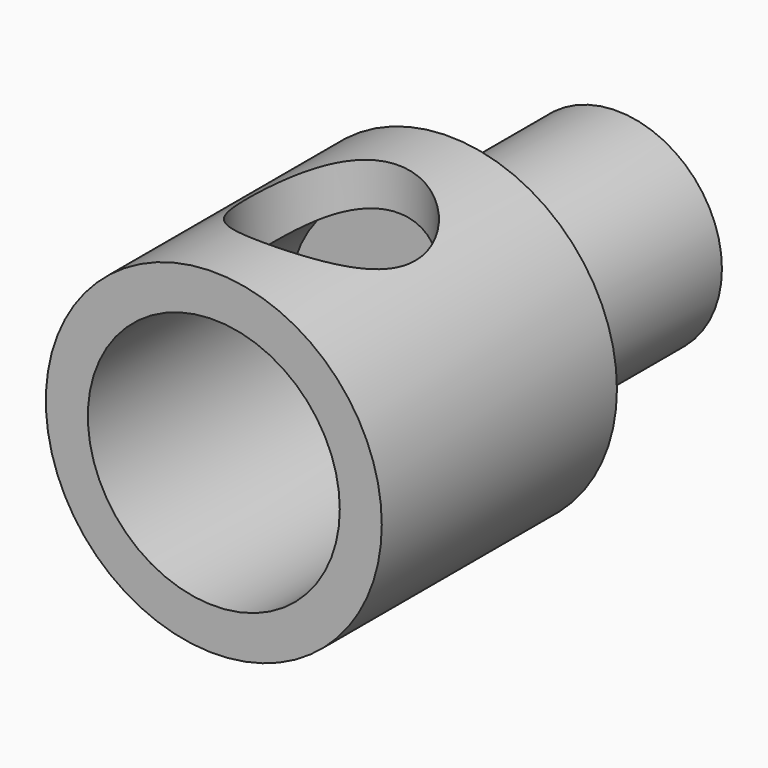
from build123d import *

# Parameters (mm, degrees)
F0_R     = 2.5
F0_R_2   = 1.5
F1_DEPTH = 5
F0_R_3   = 4
F0_R_4   = 3
F2_DEPTH = 1
F3_DEPTH = 7
F4_R     = 2
F5_DEPTH = 25


with BuildPart() as f1:
    # F0 (on Front) → F1 (new body)
    with BuildSketch(Plane.XZ):
        Circle(F0_R)
        Circle(F0_R_2, mode=Mode.SUBTRACT)
    extrude(amount=-F1_DEPTH)

    # F0 (on Front) → F2 (join)
    with BuildSketch(Plane.XZ):
        Circle(F0_R_3)
        Circle(F0_R_4, mode=Mode.SUBTRACT)
        Circle(F0_R_4)
        Circle(F0_R, mode=Mode.SUBTRACT)
        Circle(F0_R)
        Circle(F0_R_2, mode=Mode.SUBTRACT)
    extrude(amount=F2_DEPTH)

    # F0 (on Front) → F3 (join)
    with BuildSketch(Plane.XZ):
        Circle(F0_R_3)
        Circle(F0_R_4, mode=Mode.SUBTRACT)
    extrude(amount=F3_DEPTH)

    # F4 (on Top) → F5 (cut)
    with BuildSketch(Plane.XY):
        with Locations((0, -3.5)):
            Circle(F4_R)
    extrude(amount=F5_DEPTH, mode=Mode.SUBTRACT)


solid = f1.part
